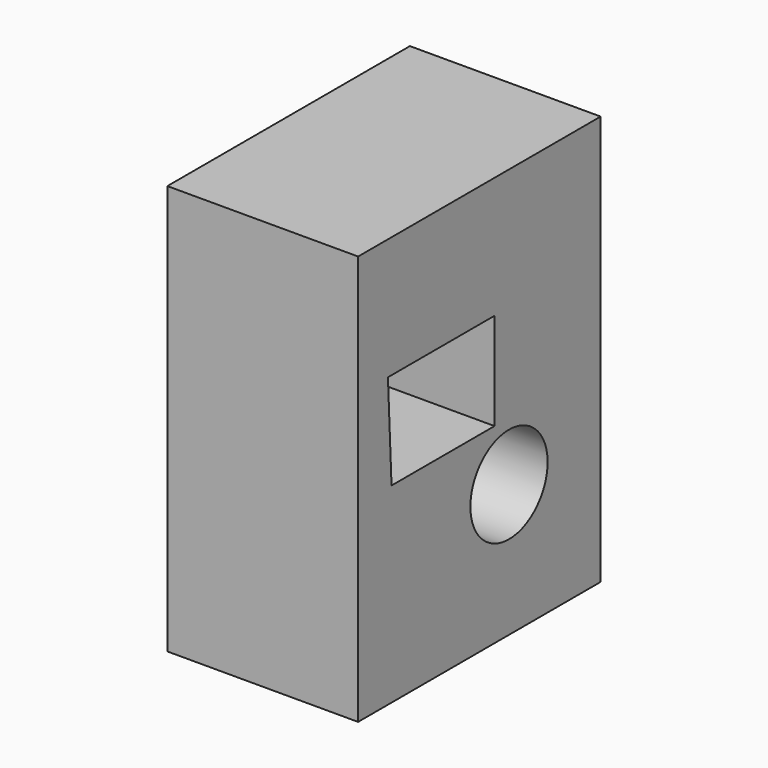
from build123d import *

# Parameters (mm, degrees)
F0_W     = 40.368855
F0_H     = 54.55908
F1_DEPTH = 25.4
F2_R     = 6.430144
F3_DEPTH = 25.401


with BuildPart() as f1:
    # F0 (on Right) → F1 (new body)
    with BuildSketch(Plane.YZ):
        with Locations((20.184427, -29.9064)):
            Rectangle(F0_W, F0_H)
        Polygon((22.709604, -31.733289), (5.564607, -31.733289), (4.963029, -18.799342), (22.709604, -18.799342), align=None, mode=Mode.SUBTRACT)
    extrude(amount=F1_DEPTH)

    # F2 (on face) → F3 (cut, through all)
    with BuildSketch(Plane.YZ.offset(25.4)):
        with Locations((25.115918, -39.553817)):
            Circle(F2_R)
    extrude(amount=-F3_DEPTH, mode=Mode.SUBTRACT)


solid = f1.part
